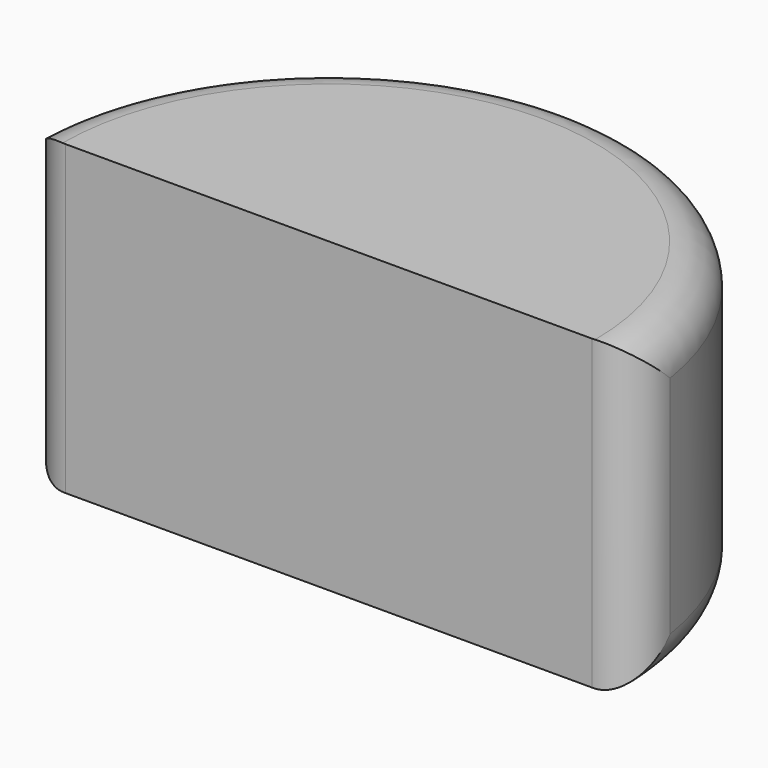
from build123d import *

# Parameters (mm, degrees)
F1_DEPTH = 38.1
F2_R     = 5.08


with BuildPart() as f1:
    # F0 (on Top) → F1 (new body)
    with BuildSketch(Plane.XY):
        with BuildLine():
            Line((-38.1, 0), (38.1, 0))
            ThreePointArc((38.1, 0), (0, 38.1), (-38.1, 0))
        make_face()
    extrude(amount=F1_DEPTH)

    # F2
    f2_edges = [f1.edges().sort_by_distance(p)[0] for p in [
        (0, 38.1, 38.1),
        (38.1, 0, 19.05),
        (-38.1, 0, 19.05),
        (0, 38.1, 0),
    ]]
    fillet(f2_edges, radius=F2_R)


solid = f1.part
